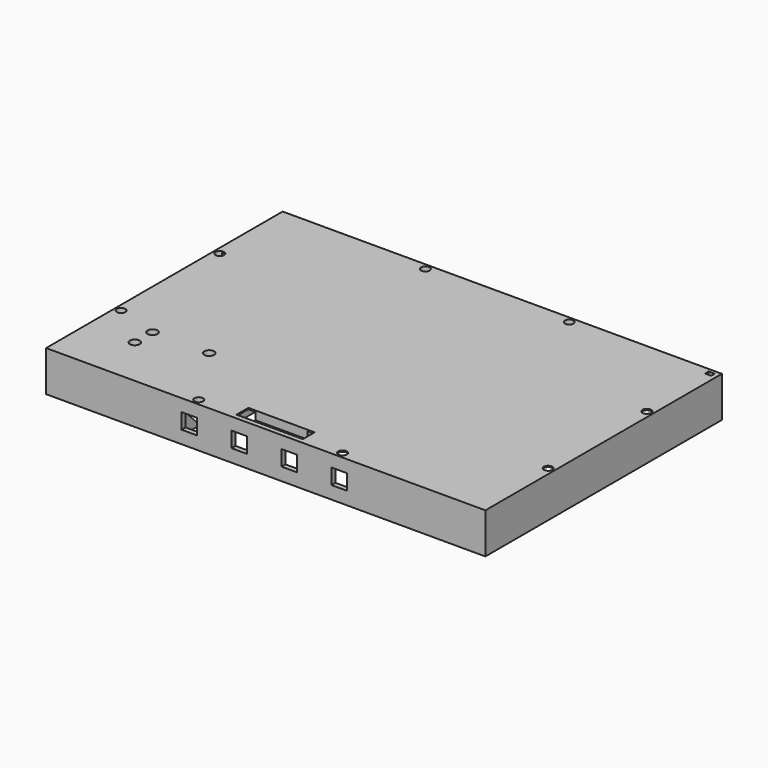
from build123d import *

# Parameters (mm, degrees)
SKETCH028_W         = 178.4
SKETCH028_H         = 120.07
PAD017_DEPTH        = 1
SKETCH029_R         = 1.75
PAD018_DEPTH        = 3
SKETCH026_W         = 32
SKETCH026_H         = 18
PAD015_DEPTH        = 1
SKETCH027_R         = 2
PAD016_DEPTH        = 10
SKETCH002_W         = 178.4
SKETCH002_H         = 120.07
SKETCH002_W_2       = 26.9298
SKETCH002_H_2       = 6
PAD002_DEPTH        = 0.5
SKETCH003_W         = 178.4
SKETCH003_H         = 120.07
SKETCH003_W_2       = 174.4
SKETCH003_H_2       = 116.07
PAD003_DEPTH        = 16
PAD004_DEPTH        = 25
LINEARPATTERN_COUNT = 2
LINEARPATTERN_PITCH = 125
SKETCH012_R         = 0.8
POCKET002_DEPTH     = 2.5
SKETCH013_W         = 2.5
SKETCH013_H         = 1.8
POCKET003_DEPTH     = 2
SKETCH017_W         = 6.3
SKETCH017_H         = 6.3
POCKET004_DEPTH     = 5
PAD010_DEPTH        = 2
SKETCH019_W         = 15.51
SKETCH019_H         = 1
POCKET005_DEPTH     = 0.5
SKETCH020_W         = 70.44
SKETCH020_H         = 12
PAD011_DEPTH        = 16
PAD012_DEPTH        = 12
PAD013_DEPTH        = 12
SKETCH025_W         = 21.22
SKETCH025_H         = 23.77
SKETCH025_W_2       = 3.5749
SKETCH025_H_2       = 6.45
SKETCH025_W_3       = 72.78
SKETCH025_H_3       = 11.45
SKETCH025_W_4       = 174.4
SKETCH025_H_4       = 11.68
SKETCH025_W_5       = 70.43
SKETCH025_H_5       = 0.7
PAD014_DEPTH        = 3


with BuildPart() as holes_bezel:
    # Sketch028 (on Face1 of Binder013) → Pad017 (new body)
    with BuildSketch(Plane(origin=(0, 0, -0.41), x_dir=(1, 0, 0), z_dir=(0, 0, -1))):
        with Locations((0, 0.305)):
            Rectangle(SKETCH028_W, SKETCH028_H)
    extrude(amount=-PAD017_DEPTH)

    # Sketch029 (on Face5 of Pad017) → Pad018 (join)
    with BuildSketch(Plane(origin=(0, 0, -0.41), x_dir=(1, 0, 0), z_dir=(0, 0, -1))):
        with Locations((29.2, 57.84)):
            Circle(SKETCH029_R)
        with Locations((-29.2, 57.84)):
            Circle(SKETCH029_R)
        with Locations((86.7, 25.34)):
            Circle(SKETCH029_R)
        with Locations((86.7, -24.73)):
            Circle(SKETCH029_R)
        with Locations((29.2, -57.23)):
            Circle(SKETCH029_R)
        with Locations((-29.2, -57.23)):
            Circle(SKETCH029_R)
        with Locations((-86.7, -24.73)):
            Circle(SKETCH029_R)
        with Locations((-86.7, 25.34)):
            Circle(SKETCH029_R)
    extrude(amount=PAD018_DEPTH)


with BuildPart() as holes:
    # Sketch026 (on Face9 of Binder011) → Pad015 (new body)
    with BuildSketch(Plane(origin=(0, 0, -6.91), x_dir=(1, 0, 0), z_dir=(0, 0, -1))):
        with Locations((-58.15, 35.24)):
            Rectangle(SKETCH026_W, SKETCH026_H)
    extrude(amount=PAD015_DEPTH)

    # Sketch027 (on Face5 of Pad015) → Pad016 (join)
    with BuildSketch(Plane.XY.offset(-6.91)):
        with Locations((-69.65, -30.74)):
            Circle(SKETCH027_R)
        with Locations((-46.65, -30.74)):
            Circle(SKETCH027_R)
        with Locations((-69.65, -39.74)):
            Circle(SKETCH027_R)
    extrude(amount=PAD016_DEPTH)


with BuildPart() as cut_case:
    # Sketch002 (on Face1 of Binder001) → Pad002 (new body)
    with BuildSketch(Plane(origin=(0, 0, -0.41), x_dir=(1, 0, 0), z_dir=(0, 0, -1))):
        with Locations((0, 0.305)):
            Rectangle(SKETCH002_W, SKETCH002_H)
        with Locations((0, 55.34)):
            Rectangle(SKETCH002_W_2, SKETCH002_H_2, mode=Mode.SUBTRACT)
    extrude(amount=PAD002_DEPTH)

    # Sketch003 (on Face10 of Pad002) → Pad003 (join)
    with BuildSketch(Plane(origin=(0, 0, -0.91), x_dir=(1, 0, 0), z_dir=(0, 0, -1))):
        with Locations((0, 0.305)):
            Rectangle(SKETCH003_W, SKETCH003_H)
        with Locations((0, 0.305)):
            Rectangle(SKETCH003_W_2, SKETCH003_H_2, mode=Mode.SUBTRACT)
    extrude(amount=PAD003_DEPTH)

    # Sketch004 (on Face9 of Pad003) → Pad004 (join)
    with BuildSketch(Plane(origin=(87.2, 0, 0), x_dir=(0, -1, 0), z_dir=(-1, 0, 0))):
        Polygon((-57.73, -16.91), (-57.73, -4.91), (-45.73, -16.91), align=None)
        Polygon((58.34, -16.91), (58.34, -4.91), (46.34, -16.91), align=None)
    pad004 = extrude(amount=PAD004_DEPTH)

    # LinearPattern: Pad004 ×2
    with Locations(*[(-i * LINEARPATTERN_PITCH, 0, 0) for i in range(1, LINEARPATTERN_COUNT)]):
        add(pad004)

    # Sketch012 (on Face1 of LinearPattern) → Pocket002 (cut)
    with BuildSketch(Plane.XY.offset(-0.41)):
        with Locations((-86.7, 24.73)):
            Circle(SKETCH012_R)
        with Locations((-86.7, -25.34)):
            Circle(SKETCH012_R)
        with Locations((-29.2, -57.84)):
            Circle(SKETCH012_R)
        with Locations((29.2, -57.84)):
            Circle(SKETCH012_R)
        with Locations((86.7, -25.34)):
            Circle(SKETCH012_R)
        with Locations((86.7, 24.73)):
            Circle(SKETCH012_R)
        with Locations((29.2, 57.23)):
            Circle(SKETCH012_R)
        with Locations((-29.2, 57.23)):
            Circle(SKETCH012_R)
    extrude(amount=-POCKET002_DEPTH, mode=Mode.SUBTRACT)

    # Sketch013 (on Face1 of Pocket002) → Pocket003 (cut)
    with BuildSketch(Plane.XY.offset(-0.41)):
        with Locations((86.14, 57.44)):
            Rectangle(SKETCH013_W, SKETCH013_H)
    extrude(amount=-POCKET003_DEPTH, mode=Mode.SUBTRACT)

    # Sketch017 (on Face3 of Pocket003) → Pocket004 (cut)
    with BuildSketch(Plane.XZ.offset(60.34)):
        with Locations((-31.05, -8.56)):
            Rectangle(SKETCH017_W, SKETCH017_H)
        with Locations((-10.75, -8.56)):
            Rectangle(SKETCH017_W, SKETCH017_H)
        with Locations((9.55, -8.56)):
            Rectangle(SKETCH017_W, SKETCH017_H)
        with Locations((29.85, -8.56)):
            Rectangle(SKETCH017_W, SKETCH017_H)
    extrude(amount=-POCKET004_DEPTH, mode=Mode.SUBTRACT)

    # Sketch018 (on Face39 of Pocket004) → Pad010 (join)
    with BuildSketch(Plane(origin=(0, 0, -0.91), x_dir=(1, 0, 0), z_dir=(0, 0, -1))):
        Polygon((-87.2, 29.22), (-87.2, -25.72), (-36.679044, -25.72), (-36.19, 29.22), align=None)
    extrude(amount=PAD010_DEPTH)

    # Sketch019 (on Face42 of Pad010) → Pocket005 (cut)
    with BuildSketch(Plane(origin=(87.2, 0, 0), x_dir=(0, -1, 0), z_dir=(-1, 0, 0))):
        with Locations((-50.085, -1.41)):
            Rectangle(SKETCH019_W, SKETCH019_H)
    extrude(amount=-POCKET005_DEPTH, mode=Mode.SUBTRACT)

    # Sketch020 (on Face74 of Pocket005) → Pad011 (join)
    with BuildSketch(Plane(origin=(0, 0, -0.91), x_dir=(1, 0, 0), z_dir=(0, 0, -1))):
        with Locations((-2.58, -51.73)):
            Rectangle(SKETCH020_W, SKETCH020_H)
    extrude(amount=PAD011_DEPTH)

    # Sketch022 (on Face69 of Pad011) → Pad012 (join)
    with BuildSketch(Plane.XZ.offset(-57.73)):
        Polygon((-38.8, -0.91), (-37.8, -1.11), (-37.8, -0.91), align=None)
        Polygon((84.89, -1.06), (83.89, -0.91), (84.89, -0.91), align=None)
    extrude(amount=PAD012_DEPTH)

    # Sketch023 (on Face10 of Pad012) → Pad013 (join)
    with BuildSketch(Plane(origin=(0, -58.34, 0), x_dir=(-1, 0, 0), z_dir=(0, 1, 0))):
        Polygon((37.8, -0.91), (38.8, -0.91), (37.8, -1.11), align=None)
        Polygon((-87.2, -0.91), (-86.2, -0.91), (-87.2, -1.11), align=None)
    extrude(amount=PAD013_DEPTH)

    # Sketch025 (on Face39 of Pad013) → Pad014 (join)
    with BuildSketch(Plane(origin=(0, 0, -0.91), x_dir=(1, 0, 0), z_dir=(0, 0, -1))):
        with Locations((0, 40.455)):
            Rectangle(SKETCH025_W, SKETCH025_H)
        Polygon((-14.1849, 27.96), (-87.2, 27.96), (-87.2, 45.64), (-37.8, 45.64), (-37.8, 58.34), (-14.1849, 58.34), align=None)
        with Locations((-12.39745, 31.795)):
            Rectangle(SKETCH025_W_2, SKETCH025_H_2)
        with Locations((50.81, 39.915)):
            Rectangle(SKETCH025_W_3, SKETCH025_H_3)
        with Locations((0, -39.19)):
            Rectangle(SKETCH025_W_4, SKETCH025_H_4)
        with Locations((-2.575, -45.38)):
            Rectangle(SKETCH025_W_5, SKETCH025_H_5)
    extrude(amount=PAD014_DEPTH)

    # Cut: cut holes
    add(holes.part, mode=Mode.SUBTRACT)

    # Cut001: cut holes bezel
    add(holes_bezel.part, mode=Mode.SUBTRACT)


solid = cut_case.part
